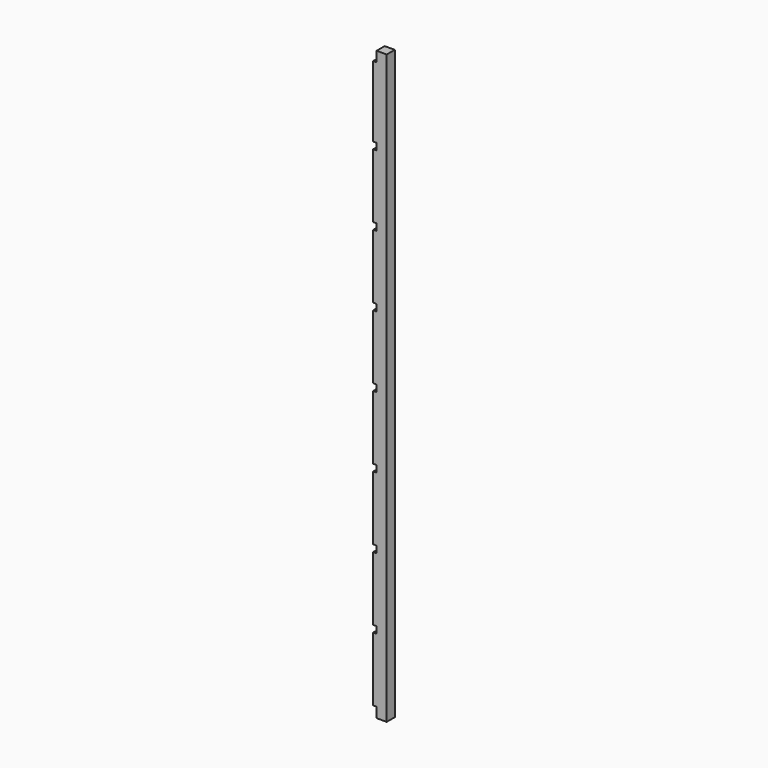
from build123d import *

# Parameters (mm, degrees)
F0_W     = 25.4
F0_H     = 19.05
F1_DEPTH = 1104.9
F2_W     = 6.35
F2_H     = 19.05
F2_H_2   = 12.7
F3_DEPTH = 19.051


with BuildPart() as f1:
    # F0 (on Top) → F1 (new body)
    with BuildSketch(Plane.XY):
        Rectangle(F0_W, F0_H)
    extrude(amount=F1_DEPTH)

    # F2 (on face) → F3 (cut, through all)
    with BuildSketch(Plane.XZ.offset(9.525)):
        with Locations((-9.525, 9.525)):
            Rectangle(F2_W, F2_H)
        with Locations((-9.525, 146.05)):
            Rectangle(F2_W, F2_H_2)
        with Locations((-9.525, 279.4)):
            Rectangle(F2_W, F2_H_2)
        with Locations((-9.525, 412.75)):
            Rectangle(F2_W, F2_H_2)
        with Locations((-9.525, 546.1)):
            Rectangle(F2_W, F2_H_2)
        with Locations((-9.525, 679.45)):
            Rectangle(F2_W, F2_H_2)
        with Locations((-9.525, 812.8)):
            Rectangle(F2_W, F2_H_2)
        with Locations((-9.525, 946.15)):
            Rectangle(F2_W, F2_H_2)
        with Locations((-9.525, 1095.375)):
            Rectangle(F2_W, F2_H)
    extrude(amount=-F3_DEPTH, mode=Mode.SUBTRACT)


solid = f1.part
